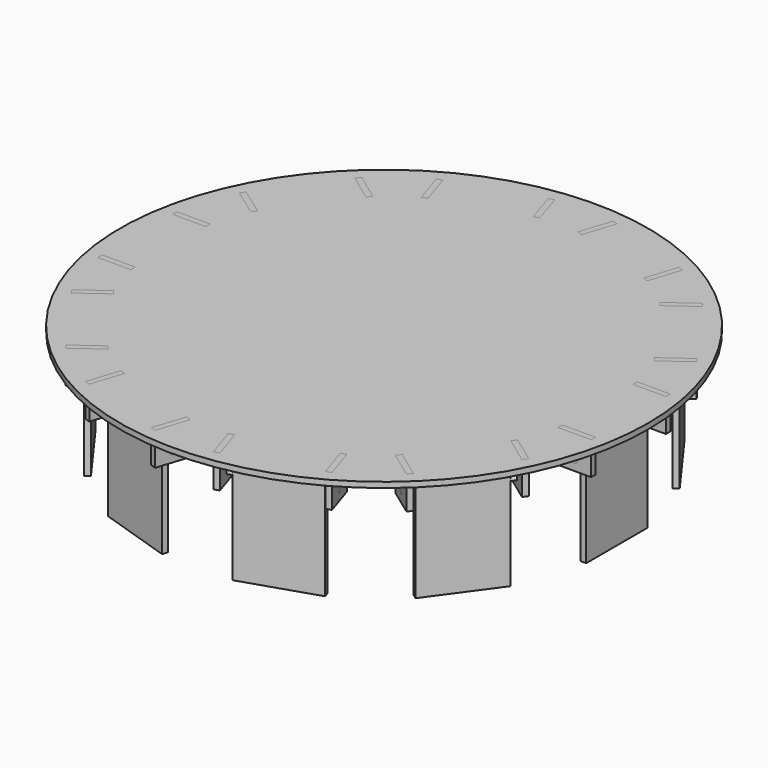
from build123d import *

# Parameters (mm, degrees)
F0_R      = 152.4
F1_DEPTH  = 3.175
F3_DEPTH  = 3.175
F4_COUNT  = 10
F7_DEPTH  = 19.05
F8_R      = 1.27
F9_DEPTH  = 220.6112030261
F10_R     = 1.27
F11_DEPTH = 57.15
F13_W     = 3.175
F13_H     = 57.15
F14_DEPTH = 22.225
F15_COUNT = 10


with BuildPart() as f1:
    # F0 (on Top) → F1 (new body)
    with BuildSketch(Plane.XY):
        Circle(F0_R)
    extrude(amount=F1_DEPTH)


with BuildPart() as f3:
    # F2 (on face) → F3 (new body, through all)
    with BuildSketch(Plane.XY.offset(3.175)):
        Polygon((10.9369730481, 126.1311843536), (13.9565774873, 125.1500553965), (19.8433512302, 143.2676820319), (16.8237467909, 144.2488109891), align=None)
    extrude(amount=-F3_DEPTH)


with BuildPart() as f3b:
    # F2 (on face) → F3, piece 2 (new body, through all)
    with BuildSketch(Plane.XY.offset(3.175)):
        Polygon((62.2702485151, 109.4519920823), (65.2898529543, 108.4708631251), (71.1766266972, 126.5884897605), (68.1570222579, 127.5696187177), align=None)
    extrude(amount=-F3_DEPTH)


with BuildPart() as f4_1:
    # F4: instance of F3
    add(f3.part.rotate(Axis((0, 0, 3.175), (0, 0, 1)), 1 * 360 / F4_COUNT))


with BuildPart() as f4_2:
    # F4: instance of F3
    add(f3.part.rotate(Axis((0, 0, 3.175), (0, 0, 1)), 2 * 360 / F4_COUNT))


with BuildPart() as f4_3:
    # F4: instance of F3
    add(f3.part.rotate(Axis((0, 0, 3.175), (0, 0, 1)), 3 * 360 / F4_COUNT))


with BuildPart() as f4_4:
    # F4: instance of F3
    add(f3.part.rotate(Axis((0, 0, 3.175), (0, 0, 1)), 4 * 360 / F4_COUNT))


with BuildPart() as f4_5:
    # F4: instance of F3
    add(f3.part.rotate(Axis((0, 0, 3.175), (0, 0, 1)), 5 * 360 / F4_COUNT))


with BuildPart() as f4_6:
    # F4: instance of F3
    add(f3.part.rotate(Axis((0, 0, 3.175), (0, 0, 1)), 6 * 360 / F4_COUNT))


with BuildPart() as f4_7:
    # F4: instance of F3
    add(f3.part.rotate(Axis((0, 0, 3.175), (0, 0, 1)), 7 * 360 / F4_COUNT))


with BuildPart() as f4_8:
    # F4: instance of F3
    add(f3.part.rotate(Axis((0, 0, 3.175), (0, 0, 1)), 8 * 360 / F4_COUNT))


with BuildPart() as f4_9:
    # F4: instance of F3
    add(f3.part.rotate(Axis((0, 0, 3.175), (0, 0, 1)), 9 * 360 / F4_COUNT))


with BuildPart() as f4_10:
    # F4: instance of F3b
    add(f3b.part.rotate(Axis((0, 0, 3.175), (0, 0, 1)), 1 * 360 / F4_COUNT))


with BuildPart() as f4_11:
    # F4: instance of F3b
    add(f3b.part.rotate(Axis((0, 0, 3.175), (0, 0, 1)), 2 * 360 / F4_COUNT))


with BuildPart() as f4_12:
    # F4: instance of F3b
    add(f3b.part.rotate(Axis((0, 0, 3.175), (0, 0, 1)), 3 * 360 / F4_COUNT))


with BuildPart() as f4_13:
    # F4: instance of F3b
    add(f3b.part.rotate(Axis((0, 0, 3.175), (0, 0, 1)), 4 * 360 / F4_COUNT))


with BuildPart() as f4_14:
    # F4: instance of F3b
    add(f3b.part.rotate(Axis((0, 0, 3.175), (0, 0, 1)), 5 * 360 / F4_COUNT))


with BuildPart() as f4_15:
    # F4: instance of F3b
    add(f3b.part.rotate(Axis((0, 0, 3.175), (0, 0, 1)), 6 * 360 / F4_COUNT))


with BuildPart() as f4_16:
    # F4: instance of F3b
    add(f3b.part.rotate(Axis((0, 0, 3.175), (0, 0, 1)), 7 * 360 / F4_COUNT))


with BuildPart() as f4_17:
    # F4: instance of F3b
    add(f3b.part.rotate(Axis((0, 0, 3.175), (0, 0, 1)), 8 * 360 / F4_COUNT))


with BuildPart() as f4_18:
    # F4: instance of F3b
    add(f3b.part.rotate(Axis((0, 0, 3.175), (0, 0, 1)), 9 * 360 / F4_COUNT))


with BuildPart() as f1_1:
    add(f1.part)

    # F5: cut F4_2, F4_12, F4_3, F4_13, F4_4, F4_14, F4_5, F4_15, F4_6, F4_16, F4_7, F4_17, F4_8, F4_18, F4_9, F3b, F3, F4_10, F4_1, F4_11
    add(f4_2.part, mode=Mode.SUBTRACT)
    add(f4_12.part, mode=Mode.SUBTRACT)
    add(f4_3.part, mode=Mode.SUBTRACT)
    add(f4_13.part, mode=Mode.SUBTRACT)
    add(f4_4.part, mode=Mode.SUBTRACT)
    add(f4_14.part, mode=Mode.SUBTRACT)
    add(f4_5.part, mode=Mode.SUBTRACT)
    add(f4_15.part, mode=Mode.SUBTRACT)
    add(f4_6.part, mode=Mode.SUBTRACT)
    add(f4_16.part, mode=Mode.SUBTRACT)
    add(f4_7.part, mode=Mode.SUBTRACT)
    add(f4_17.part, mode=Mode.SUBTRACT)
    add(f4_8.part, mode=Mode.SUBTRACT)
    add(f4_18.part, mode=Mode.SUBTRACT)
    add(f4_9.part, mode=Mode.SUBTRACT)
    add(f3b.part, mode=Mode.SUBTRACT)
    add(f3.part, mode=Mode.SUBTRACT)
    add(f4_10.part, mode=Mode.SUBTRACT)
    add(f4_1.part, mode=Mode.SUBTRACT)
    add(f4_11.part, mode=Mode.SUBTRACT)


with BuildPart() as f7:
    # F6 (on face) → F7 (new body)
    with BuildSketch(Plane.XY.offset(3.175)):
        Polygon((16.8237467909, 144.2488109891), (10.9369730481, 126.1311843536), (13.9565774873, 125.1500553965), (19.8433512302, 143.2676820319), align=None)
    extrude(amount=-F7_DEPTH)


with BuildPart() as f7b:
    # F6 (on face) → F7, piece 2 (new body)
    with BuildSketch(Plane.XY.offset(3.175)):
        Polygon((65.2898529543, 108.4708631251), (71.1766266972, 126.5884897605), (68.1570222579, 127.5696187177), (62.2702485151, 109.4519920823), align=None)
    extrude(amount=-F7_DEPTH)


with BuildPart() as f9_tool:
    # F8 (on face) → F9 (new body, through all)
    with BuildSketch(Plane(origin=(-27.1764399531, 8.8301606143, 0), x_dir=(-0.3090169944, -0.9510565163, 0), z_dir=(-0.9510565163, 0.3090169944, 0))):
        with Locations((-132.8625953264, -10.795)):
            Circle(F8_R)
    extrude(amount=-F9_DEPTH)


with BuildPart() as f7_1:
    add(f7.part)

    # F9: cut by f9_tool
    add(f9_tool.part, mode=Mode.SUBTRACT)


with BuildPart() as f7b_1:
    add(f7b.part)

    # F9: cut by f9_tool
    add(f9_tool.part, mode=Mode.SUBTRACT)


with BuildPart() as f11:
    # F10 (on face) → F11 (new body, through all)
    with BuildSketch(Plane(origin=(-27.1764399531, 8.8301606143, 0), x_dir=(-0.3090169944, -0.9510565163, 0), z_dir=(-0.9510565163, 0.3090169944, 0))):
        with Locations((-132.8625953264, -10.795)):
            Circle(F10_R)
    extrude(amount=-F11_DEPTH)


with BuildPart() as f14:
    # F13 (on mid) → F14 (new body, symmetric)
    with BuildSketch(Plane(origin=(0, 0, 0), x_dir=(-0.3090169944, -0.9510565163, 0), z_dir=(-0.9510565163, 0.3090169944, 0))):
        with Locations((-132.8625953264, -36.195)):
            Rectangle(F13_W, F13_H)
    extrude(amount=F14_DEPTH, both=True)


with BuildPart() as f15_1:
    # F15: instance of F7b
    add(f7b_1.part.rotate(Axis((0, 0, 0), (0, 0, 1)), 1 * 360 / F15_COUNT))


with BuildPart() as f15_2:
    # F15: instance of F7b
    add(f7b_1.part.rotate(Axis((0, 0, 0), (0, 0, 1)), 2 * 360 / F15_COUNT))


with BuildPart() as f15_3:
    # F15: instance of F7b
    add(f7b_1.part.rotate(Axis((0, 0, 0), (0, 0, 1)), 3 * 360 / F15_COUNT))


with BuildPart() as f15_4:
    # F15: instance of F7b
    add(f7b_1.part.rotate(Axis((0, 0, 0), (0, 0, 1)), 4 * 360 / F15_COUNT))


with BuildPart() as f15_5:
    # F15: instance of F7b
    add(f7b_1.part.rotate(Axis((0, 0, 0), (0, 0, 1)), 5 * 360 / F15_COUNT))


with BuildPart() as f15_6:
    # F15: instance of F7b
    add(f7b_1.part.rotate(Axis((0, 0, 0), (0, 0, 1)), 6 * 360 / F15_COUNT))


with BuildPart() as f15_7:
    # F15: instance of F7b
    add(f7b_1.part.rotate(Axis((0, 0, 0), (0, 0, 1)), 7 * 360 / F15_COUNT))


with BuildPart() as f15_8:
    # F15: instance of F7b
    add(f7b_1.part.rotate(Axis((0, 0, 0), (0, 0, 1)), 8 * 360 / F15_COUNT))


with BuildPart() as f15_9:
    # F15: instance of F7b
    add(f7b_1.part.rotate(Axis((0, 0, 0), (0, 0, 1)), 9 * 360 / F15_COUNT))


with BuildPart() as f15_10:
    # F15: instance of F7
    add(f7_1.part.rotate(Axis((0, 0, 0), (0, 0, 1)), 1 * 360 / F15_COUNT))


with BuildPart() as f15_11:
    # F15: instance of F7
    add(f7_1.part.rotate(Axis((0, 0, 0), (0, 0, 1)), 2 * 360 / F15_COUNT))


with BuildPart() as f15_12:
    # F15: instance of F7
    add(f7_1.part.rotate(Axis((0, 0, 0), (0, 0, 1)), 3 * 360 / F15_COUNT))


with BuildPart() as f15_13:
    # F15: instance of F7
    add(f7_1.part.rotate(Axis((0, 0, 0), (0, 0, 1)), 4 * 360 / F15_COUNT))


with BuildPart() as f15_14:
    # F15: instance of F7
    add(f7_1.part.rotate(Axis((0, 0, 0), (0, 0, 1)), 5 * 360 / F15_COUNT))


with BuildPart() as f15_15:
    # F15: instance of F7
    add(f7_1.part.rotate(Axis((0, 0, 0), (0, 0, 1)), 6 * 360 / F15_COUNT))


with BuildPart() as f15_16:
    # F15: instance of F7
    add(f7_1.part.rotate(Axis((0, 0, 0), (0, 0, 1)), 7 * 360 / F15_COUNT))


with BuildPart() as f15_17:
    # F15: instance of F7
    add(f7_1.part.rotate(Axis((0, 0, 0), (0, 0, 1)), 8 * 360 / F15_COUNT))


with BuildPart() as f15_18:
    # F15: instance of F7
    add(f7_1.part.rotate(Axis((0, 0, 0), (0, 0, 1)), 9 * 360 / F15_COUNT))


with BuildPart() as f15_19:
    # F15: instance of F14
    add(f14.part.rotate(Axis((0, 0, 0), (0, 0, 1)), 1 * 360 / F15_COUNT))


with BuildPart() as f15_20:
    # F15: instance of F14
    add(f14.part.rotate(Axis((0, 0, 0), (0, 0, 1)), 2 * 360 / F15_COUNT))


with BuildPart() as f15_21:
    # F15: instance of F14
    add(f14.part.rotate(Axis((0, 0, 0), (0, 0, 1)), 3 * 360 / F15_COUNT))


with BuildPart() as f15_22:
    # F15: instance of F14
    add(f14.part.rotate(Axis((0, 0, 0), (0, 0, 1)), 4 * 360 / F15_COUNT))


with BuildPart() as f15_23:
    # F15: instance of F14
    add(f14.part.rotate(Axis((0, 0, 0), (0, 0, 1)), 5 * 360 / F15_COUNT))


with BuildPart() as f15_24:
    # F15: instance of F14
    add(f14.part.rotate(Axis((0, 0, 0), (0, 0, 1)), 6 * 360 / F15_COUNT))


with BuildPart() as f15_25:
    # F15: instance of F14
    add(f14.part.rotate(Axis((0, 0, 0), (0, 0, 1)), 7 * 360 / F15_COUNT))


with BuildPart() as f15_26:
    # F15: instance of F14
    add(f14.part.rotate(Axis((0, 0, 0), (0, 0, 1)), 8 * 360 / F15_COUNT))


with BuildPart() as f15_27:
    # F15: instance of F14
    add(f14.part.rotate(Axis((0, 0, 0), (0, 0, 1)), 9 * 360 / F15_COUNT))


with BuildPart() as f15_28:
    # F15: instance of F11
    add(f11.part.rotate(Axis((0, 0, 0), (0, 0, 1)), 1 * 360 / F15_COUNT))


with BuildPart() as f15_29:
    # F15: instance of F11
    add(f11.part.rotate(Axis((0, 0, 0), (0, 0, 1)), 2 * 360 / F15_COUNT))


with BuildPart() as f15_30:
    # F15: instance of F11
    add(f11.part.rotate(Axis((0, 0, 0), (0, 0, 1)), 3 * 360 / F15_COUNT))


with BuildPart() as f15_31:
    # F15: instance of F11
    add(f11.part.rotate(Axis((0, 0, 0), (0, 0, 1)), 4 * 360 / F15_COUNT))


with BuildPart() as f15_32:
    # F15: instance of F11
    add(f11.part.rotate(Axis((0, 0, 0), (0, 0, 1)), 5 * 360 / F15_COUNT))


with BuildPart() as f15_33:
    # F15: instance of F11
    add(f11.part.rotate(Axis((0, 0, 0), (0, 0, 1)), 6 * 360 / F15_COUNT))


with BuildPart() as f15_34:
    # F15: instance of F11
    add(f11.part.rotate(Axis((0, 0, 0), (0, 0, 1)), 7 * 360 / F15_COUNT))


with BuildPart() as f15_35:
    # F15: instance of F11
    add(f11.part.rotate(Axis((0, 0, 0), (0, 0, 1)), 8 * 360 / F15_COUNT))


with BuildPart() as f15_36:
    # F15: instance of F11
    add(f11.part.rotate(Axis((0, 0, 0), (0, 0, 1)), 9 * 360 / F15_COUNT))


solid = Compound([f1_1.part, f7_1.part, f7b_1.part, f11.part, f14.part, f15_1.part, f15_2.part, f15_3.part, f15_4.part, f15_5.part, f15_6.part, f15_7.part, f15_8.part, f15_9.part, f15_10.part, f15_11.part, f15_12.part, f15_13.part, f15_14.part, f15_15.part, f15_16.part, f15_17.part, f15_18.part, f15_19.part, f15_20.part, f15_21.part, f15_22.part, f15_23.part, f15_24.part, f15_25.part, f15_26.part, f15_27.part, f15_28.part, f15_29.part, f15_30.part, f15_31.part, f15_32.part, f15_33.part, f15_34.part, f15_35.part, f15_36.part])
